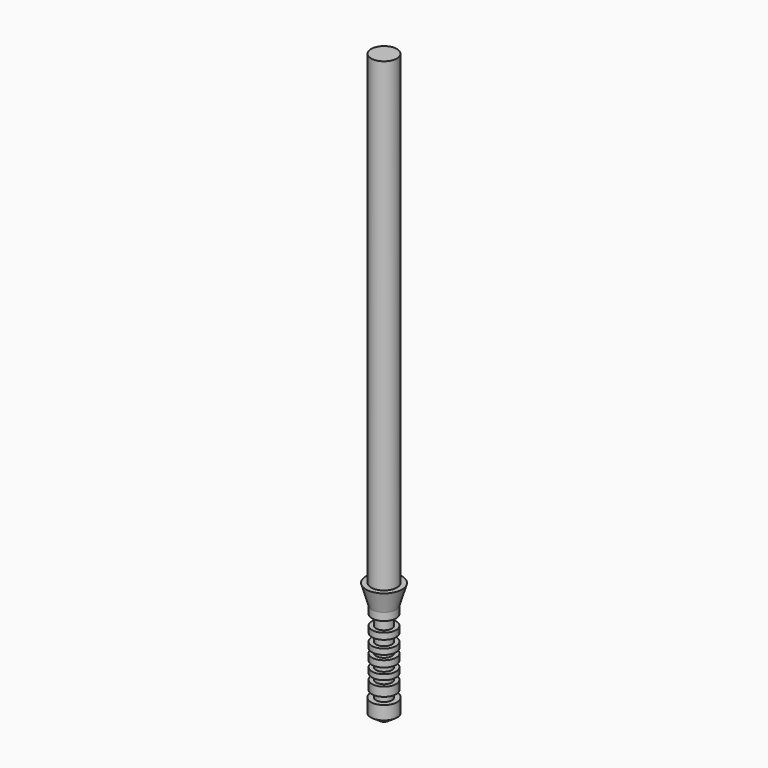
from build123d import *

# Parameters (mm, degrees)
F2_R     = 12.922715
F3_DEPTH = 466.46785


with BuildPart() as f1:
    # F0 (on Front) → F1 (revolve)
    with BuildSketch(Plane.XZ):
        Polygon((0, 49.444381), (0, -70.76326), (4.623371, -70.76326), (13.09955, -65.026858), (13.09955, -51.499214), (7.962471, -51.499214), (7.962471, -44.821013), (12.072132, -44.821013), (12.072132, -35.850234), (7.962471, -35.850234), (7.962471, -30.133804), (12.072132, -30.133804), (12.072132, -24.846105), (7.962471, -24.846105), (7.962471, -18.986762), (12.072132, -18.986762), (12.072132, -12.555777), (7.962471, -12.555777), (7.962471, -7.834046), (12.072132, -7.834046), (12.072132, -2.2662), (7.962471, -2.2662), (7.962471, 5.450982), (12.072132, 5.450982), (12.072132, 11.739058), (7.962471, 11.739058), (7.962471, 22.028632), (12.072132, 22.028632), (12.072132, 29.560009), (17.979775, 49.444381), align=None)
    revolve(axis=Axis((0, 0, -3.31521), (0, 0, -1)))

    # F2 (on face) → F3 (join)
    with BuildSketch(Plane.XY.offset(49.444381)):
        Circle(F2_R)
    extrude(amount=F3_DEPTH)


solid = f1.part
